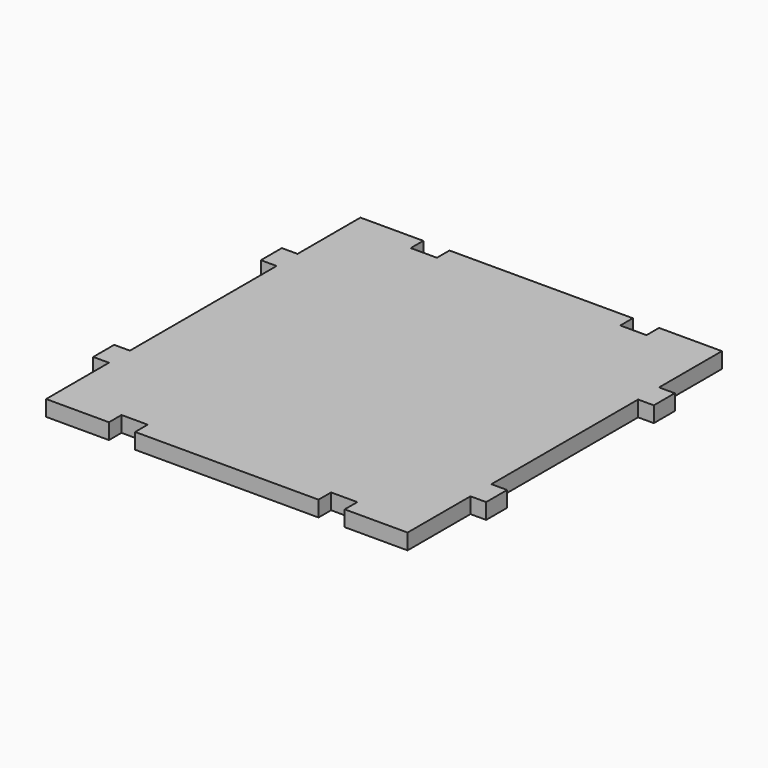
from build123d import *

# Parameters (mm, degrees)
F0_W     = 6
F0_H     = 10
F1_DEPTH = 6


with BuildPart() as f1:
    # F0 (on Top) → F1 (new body)
    with BuildSketch(Plane.XY):
        Polygon((49.193878, -79.867347), (73.193878, -79.867347), (73.193878, -73.867347), (73.193878, -49.867347), (73.193878, -39.867347), (73.193878, 30.132653), (73.193878, 40.132653), (73.193878, 64.132653), (73.193878, 70.132653), (49.193878, 70.132653), (49.193878, 64.132653), (39.193878, 64.132653), (39.193878, 70.132653), (-30.806122, 70.132653), (-30.806122, 64.132653), (-40.806122, 64.132653), (-40.806122, 70.132653), (-64.806122, 70.132653), (-64.806122, 64.132653), (-64.806122, 40.132653), (-64.806122, 30.132653), (-64.806122, -39.867347), (-64.806122, -49.867347), (-64.806122, -73.867347), (-64.806122, -79.867347), (-40.806122, -79.867347), (-40.806122, -73.867347), (-30.806122, -73.867347), (-30.806122, -79.867347), (39.193878, -79.867347), (39.193878, -73.867347), (49.193878, -73.867347), align=None)
        with Locations((-67.806122, 35.132653)):
            Rectangle(F0_W, F0_H)
        with Locations((-67.806122, -44.867347)):
            Rectangle(F0_W, F0_H)
        with Locations((76.193878, -44.867347)):
            Rectangle(F0_W, F0_H)
        with Locations((76.193878, 35.132653)):
            Rectangle(F0_W, F0_H)
    extrude(amount=F1_DEPTH)


solid = f1.part
